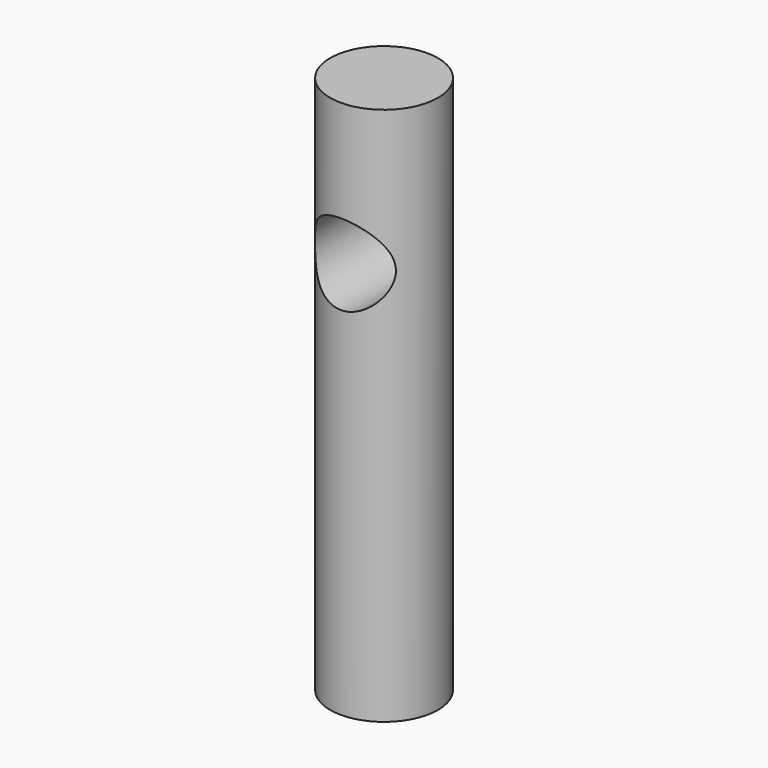
from build123d import *

# Parameters (mm, degrees)
F0_W     = 1
F0_H     = 10
F2_R     = 0.75
F3_DEPTH = 250
F4_DEPTH = 25


with BuildPart() as f1:
    # F0 (on Front) → F1 (revolve)
    with BuildSketch(Plane.XZ):
        with Locations((-0.5, 5)):
            Rectangle(F0_W, F0_H)
    revolve(axis=Axis((-1, 0, 5), (0, 0, 1)))

    # F2 (on Front) → F3 (cut)
    with BuildSketch(Plane.XZ):
        with Locations((-1, 7.363699)):
            Circle(F2_R)
    extrude(amount=-F3_DEPTH, mode=Mode.SUBTRACT)

    # F2 (on Front) → F4 (cut)
    with BuildSketch(Plane.XZ):
        with Locations((-1, 7.363699)):
            Circle(F2_R)
    extrude(amount=F4_DEPTH, mode=Mode.SUBTRACT)


solid = f1.part
